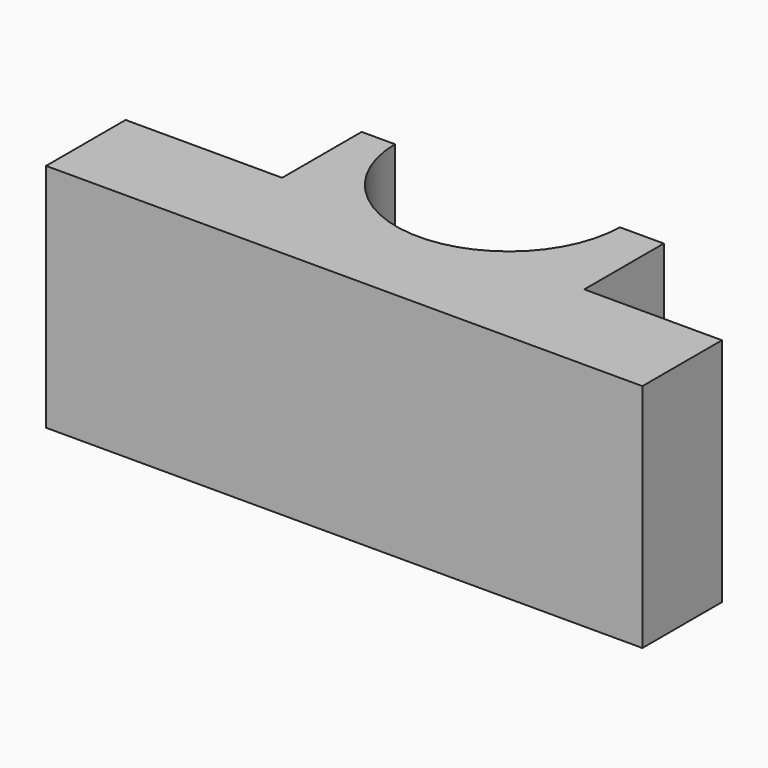
from build123d import *

# Parameters (mm, degrees)
F1_W     = 19.304
F1_H     = 6.35
F2_DEPTH = 14.732
F0_W     = 38.1
F0_H     = 6.35
F3_DEPTH = 14.732
F5_R     = 7.186013
F6_DEPTH = 14.733


with BuildPart() as f2:
    # F1 (on face) → F2 (new body)
    with BuildSketch(Plane.XY):
        with Locations((1.162567, 6.780102)):
            Rectangle(F1_W, F1_H)
    extrude(amount=F2_DEPTH)

    # F0 (on Top) → F3 (join)
    with BuildSketch(Plane.XY):
        with Locations((0.559317, 0.430102)):
            Rectangle(F0_W, F0_H)
    extrude(amount=F3_DEPTH)

    # F5 (on face) → F6 (cut, through all)
    with BuildSketch(Plane.XY.offset(14.732)):
        with Locations((0.823092, 10.066757)):
            Circle(F5_R)
    extrude(amount=-F6_DEPTH, mode=Mode.SUBTRACT)


solid = f2.part
